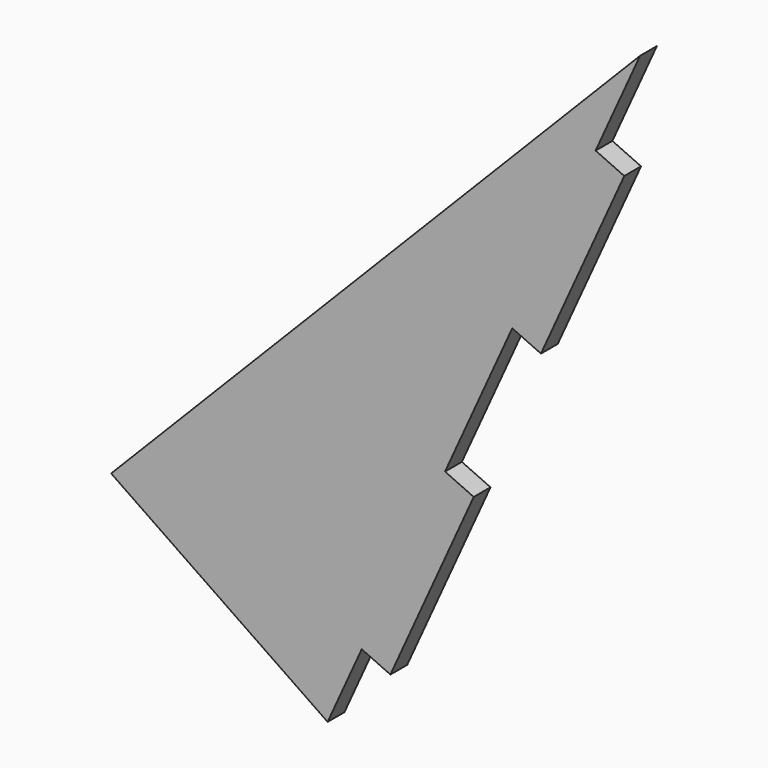
from build123d import *

# Parameters (mm, degrees)
F1_DEPTH = 12.7
F2_W     = 12.7
F2_H     = 121.92
F3_DEPTH = 19.05


with BuildPart() as f1:
    # F0 (on Front) → F1 (new body)
    with BuildSketch(Plane.XZ):
        Polygon((0, 326.5288198487), (-320.0168273829, 0), (-189.0380174544, -89.7601038052), align=None)
    extrude(amount=F1_DEPTH)

    # F2 (on face) → F3 (join)
    with BuildSketch(Plane(origin=(-122.9286422393, 0, 55.8222558826), x_dir=(0, 1, 0), z_dir=(0.9105182057, 0, -0.4134689796))):
        with Locations((-6.35, 171.261092267)):
            Rectangle(F2_W, F2_H)
        with Locations((-6.35, -49.0228463048)):
            Rectangle(F2_W, F2_H)
    extrude(amount=F3_DEPTH)


solid = f1.part
